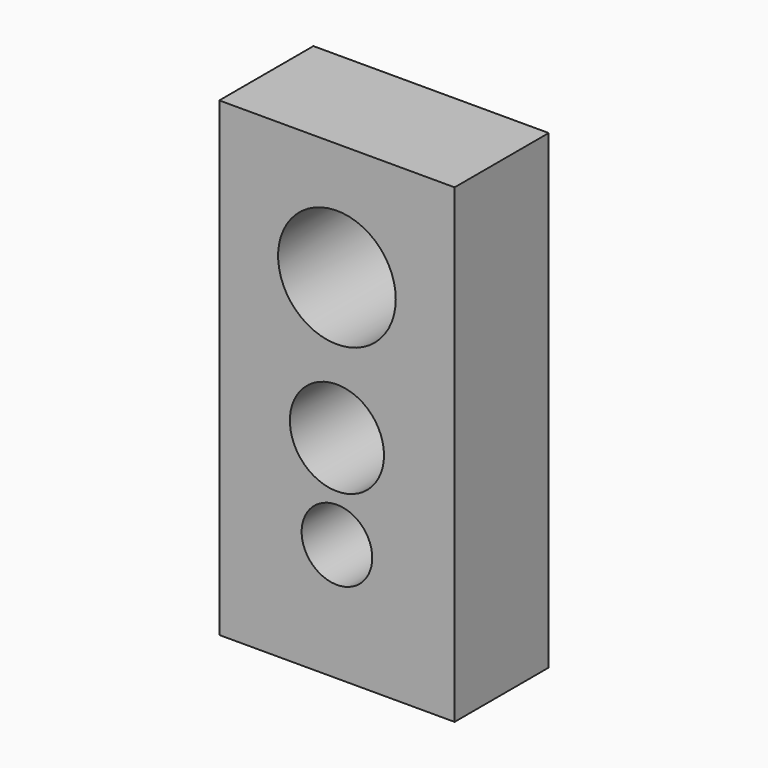
from build123d import *

# Parameters (mm, degrees)
F0_W     = 20
F0_H     = 40
F0_R     = 3
F0_R_2   = 4
F0_R_3   = 5
F1_DEPTH = 10


with BuildPart() as f1:
    # F0 (on Front) → F1 (new body)
    with BuildSketch(Plane.XZ):
        with Locations((0, 10)):
            Rectangle(F0_W, F0_H)
        Circle(F0_R, mode=Mode.SUBTRACT)
        with Locations((0, 8)):
            Circle(F0_R_2, mode=Mode.SUBTRACT)
        with Locations((0, 20)):
            Circle(F0_R_3, mode=Mode.SUBTRACT)
    extrude(amount=F1_DEPTH)


solid = f1.part
